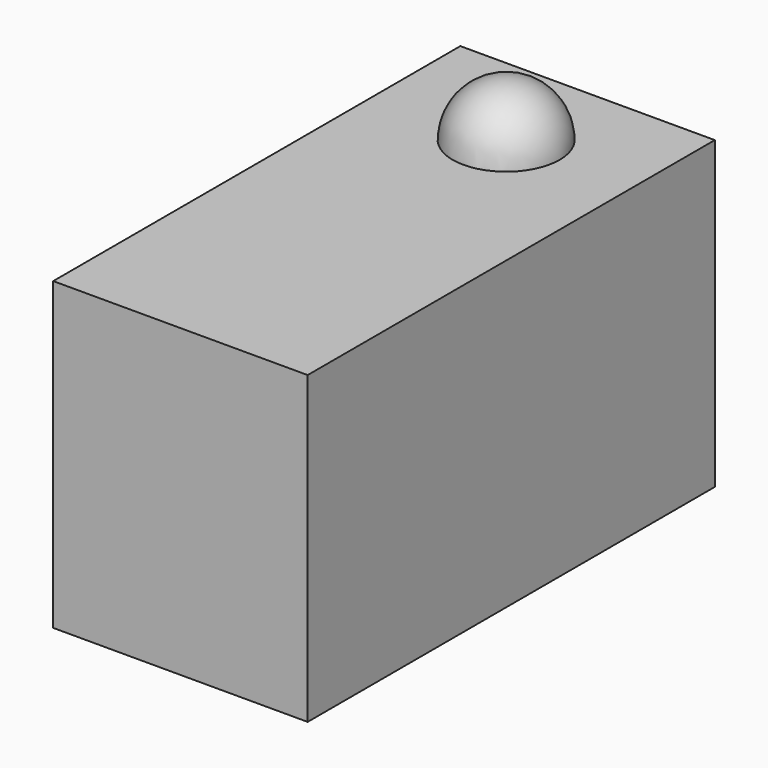
from build123d import *

# Parameters (mm, degrees)
F0_W     = 100
F0_H     = 200
F1_DEPTH = 120


with BuildPart() as f1:
    # F0 (on Top) → F1 (new body)
    with BuildSketch(Plane.XY):
        Rectangle(F0_W, F0_H)
    extrude(amount=F1_DEPTH)

    # F2 (on face) → F3 (revolve)
    with BuildSketch(Plane.XY.offset(120)):
        with BuildLine():
            Line((0, 60), (21.0223, 60))
            ThreePointArc((21.0223, 60), (0, 81.0223), (-21.0223, 60))
            Line((-21.0223, 60), (0, 60))
        make_face()
    revolve(axis=Axis((0, 60, 120), (1, 0, 0)))


solid = f1.part
